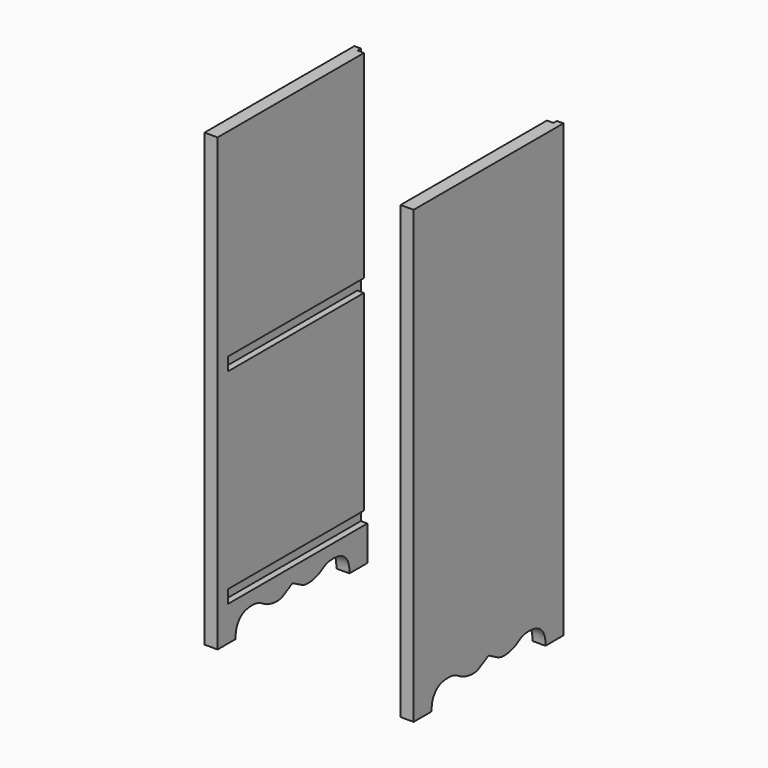
from build123d import *

# Parameters (mm, degrees)
F0_W     = 19.05
F0_H     = 657.225
F1_DEPTH = 273.05
F2_W     = 6.35
F2_H     = 19.05
F2_H_2   = 288.925
F2_W_2   = 247.65
F2_H_3   = 279.4
F3_DEPTH = 9.525
F5_DEPTH = 25.4


with BuildPart() as f1:
    # F0 (on Front) → F1 (new body)
    with BuildSketch(Plane.XZ):
        with Locations((9.525, 328.6125)):
            Rectangle(F0_W, F0_H)
    extrude(amount=F1_DEPTH)

    # F2 (on face) → F3 (cut)
    with BuildSketch(Plane.YZ.offset(19.05)):
        with Locations((-3.175, 358.775)):
            Rectangle(F2_W, F2_H)
        with Locations((-3.175, 512.7625)):
            Rectangle(F2_W, F2_H_2)
        with Locations((-130.175, 358.775)):
            Rectangle(F2_W_2, F2_H)
        with Locations((-3.175, 209.55)):
            Rectangle(F2_W, F2_H_3)
        Polygon((0, 50.8), (0, 69.85), (-6.35, 69.85), (-254, 69.85), (-254, 50.8), align=None)
    extrude(amount=-F3_DEPTH, mode=Mode.SUBTRACT)

    # F4 (on face) → F5 (cut)
    with BuildSketch(Plane.YZ.offset(19.05)):
        with BuildLine():
            Line((-240.2522563934, 0), (-136.525, 0))
            Line((-136.525, 0), (-136.525, 29.6503286809))
            add(Edge.make_bspline(
                [(-240.2522563934, 0), (-240.2156873879, 4.1745950735), (-240.1395307598, 12.9532015232), (-231.7572735519, 26.602763893), (-216.8034780579, 31.9415278641), (-196.7156415017, 30.8262784524), (-185.6780505896, 20.7363519544), (-162.8031207123, 16.2873893766), (-150.7498544318, 21.3307274369), (-141.0247415194, 27.5648176301), (-136.525, 29.6503286809)],
                knots=[0, 0, 0, 0, 0.112021792, 0.2325315361, 0.3559611943, 0.4920857255, 0.6136957742, 0.7599718075, 0.8741056104, 1, 1, 1, 1], degree=3))
        make_face()
        with BuildLine():
            Line((-136.525, 29.6503286809), (-136.525, 0))
            Line((-136.525, 0), (-32.7977436066, 0))
            add(Edge.make_bspline(
                [(-32.7977436066, 0), (-32.8343126121, 4.1745950735), (-32.9104692402, 12.9532015232), (-41.2927264481, 26.602763893), (-56.2465219421, 31.9415278641), (-76.3343584983, 30.8262784524), (-87.3719494104, 20.7363519544), (-110.2468792877, 16.2873893766), (-122.3001455682, 21.3307274369), (-132.0252584806, 27.5648176301), (-136.525, 29.6503286809)],
                knots=[0, 0, 0, 0, 0.112021792, 0.2325315361, 0.3559611943, 0.4920857255, 0.6136957742, 0.7599718075, 0.8741056104, 1, 1, 1, 1], degree=3))
        make_face()
    extrude(amount=-F5_DEPTH, mode=Mode.SUBTRACT)


with BuildPart() as f7_1:
    # F7: instance of F1
    add(f1.part.mirror(Plane.YZ.offset(152.4)))


solid = Compound([f1.part, f7_1.part])
